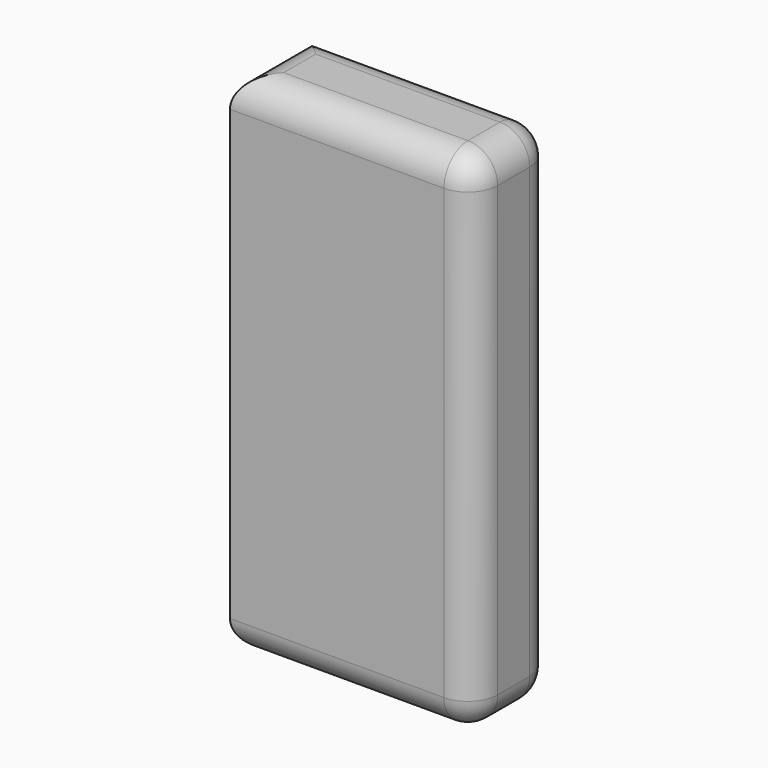
from build123d import *

# Parameters (mm, degrees)
F0_W     = 61.199996
F0_H     = 127.500012
F1_DEPTH = 12.5
F2_R     = 7.484062


with BuildPart() as f1:
    # F0 (on Front) → F1 (new body, symmetric)
    with BuildSketch(Plane.XZ):
        Rectangle(F0_W, F0_H)
    extrude(amount=F1_DEPTH, both=True)

    # F2
    f2_edges = [f1.edges().sort_by_distance(p)[0] for p in [
        (-30.599998, 0, 63.750006),
        (0, -12.5, 63.750006),
        (30.599998, 0, 63.750006),
        (0, 12.5, 63.750006),
        (30.599998, -12.5, 0),
        (30.599998, 12.5, 0),
        (0, -12.5, -63.750006),
        (30.599998, 0, -63.750006),
        (0, 12.5, -63.750006),
        (-30.599998, 0, -63.750006),
    ]]
    fillet(f2_edges, radius=F2_R)


solid = f1.part
